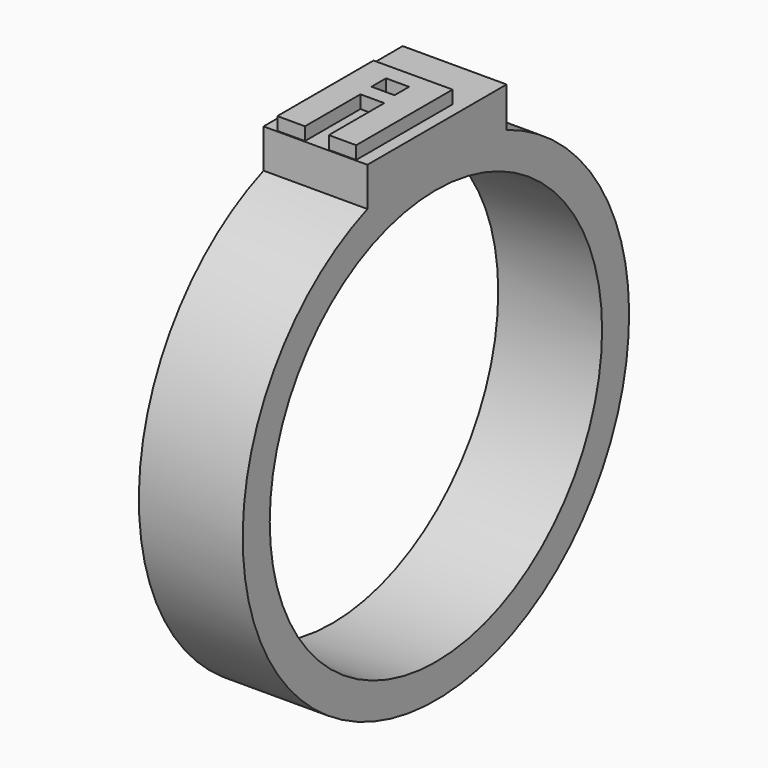
from build123d import *

# Parameters (mm, degrees)
F0_W     = 50.8
F0_H     = 16.51
F3_DEPTH = 50.8
F6_DEPTH = 6.35
F4_W     = 11.2776
F4_H     = 8.89
F7_DEPTH = 6.35


with BuildPart() as f1:
    # F0 (on Front) → F1 (revolve)
    with BuildSketch(Plane.XZ):
        with Locations((-57.8927400278, 71.4143859753)):
            Rectangle(F0_W, F0_H)
    revolve(axis=Axis((-60.0075013936, 0, -38.4406140247), (1, 0, 0)))

    # F2 (on face) → F3 (join)
    with BuildSketch(Plane.YZ.offset(-32.4927400278)):
        with BuildLine():
            ThreePointArc((-41.8872153091, 71.992321704), (0.7051217623, 79.667281153), (43.2027846909, 71.484321704))
            Line((43.2027846909, 71.484321704), (43.2027846909, 91.042321704))
            Line((43.2027846909, 91.042321704), (-41.8872153091, 91.042321704))
            Line((-41.8872153091, 91.042321704), (-41.8872153091, 71.992321704))
        make_face()
    extrude(amount=-F3_DEPTH)

    # F5 (on face) → F6 (join)
    with BuildSketch(Plane.XY.offset(91.042321704)):
        Polygon((-38.3323021233, 17.4853205681), (-76.9100263715, 17.3771120608), (-76.9100263715, -41.4511188865), (-63.3748918772, -41.4511188865), (-63.3748918772, -7.5572687201), (-51.7171360552, -7.5572687201), (-51.7171360552, -41.4511188865), (-38.3323021233, -41.4511188865), align=None)
    extrude(amount=F6_DEPTH)

    # F4 (on face) → F7 (cut)
    with BuildSketch(Plane.XY.offset(91.042321704)):
        with Locations((-58.3582898628, 4.445)):
            Rectangle(F4_W, F4_H)
    extrude(amount=F7_DEPTH, mode=Mode.SUBTRACT)


solid = f1.part
